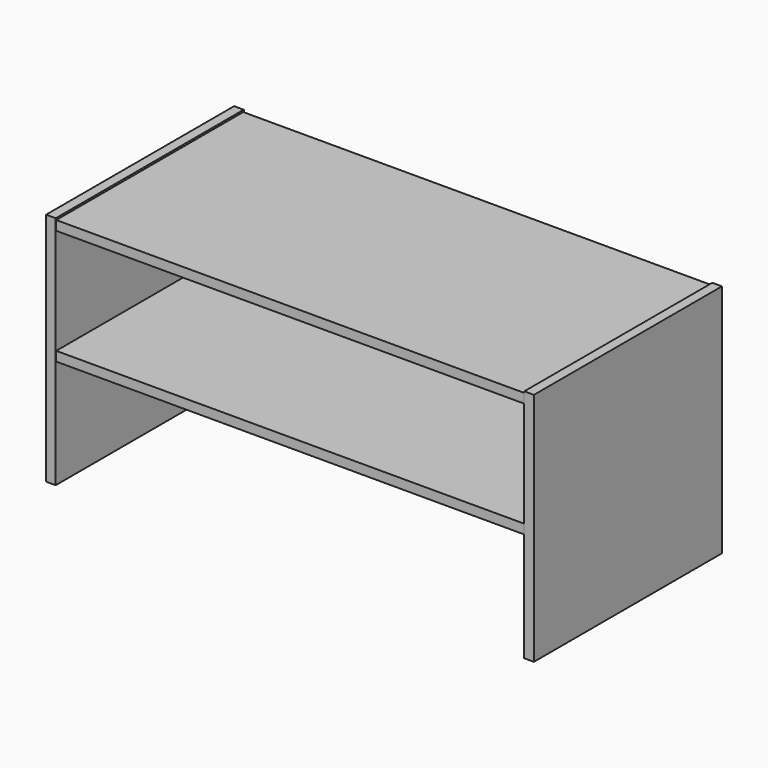
from build123d import *

# Parameters (mm, degrees)
F1_DEPTH = 147.6375
F0_W     = 588.575
F0_H     = 11.9
F2_DEPTH = 146.84375


with BuildPart() as f1:
    # F0 (on Front) → F1 (new body, symmetric)
    with BuildSketch(Plane.XZ):
        Polygon((-306.3875, 295.275), (-306.3875, 0), (-294.2875, 0), (-294.2875, 136.425), (-294.2875, 148.325), (-294.2875, 281.075), (-294.2875, 292.975), (-294.2875, 295.275), align=None)
        Polygon((294.2875, 148.325), (294.2875, 136.425), (294.2875, 0), (306.3875, 0), (306.3875, 295.275), (294.2875, 295.275), (294.2875, 292.975), (294.2875, 281.075), align=None)
    extrude(amount=F1_DEPTH, both=True)

    # F0 (on Front) → F2 (join, symmetric)
    with BuildSketch(Plane.XZ):
        with Locations((0, 287.025)):
            Rectangle(F0_W, F0_H)
        with Locations((0, 142.375)):
            Rectangle(F0_W, F0_H)
    extrude(amount=F2_DEPTH, both=True)


solid = f1.part
